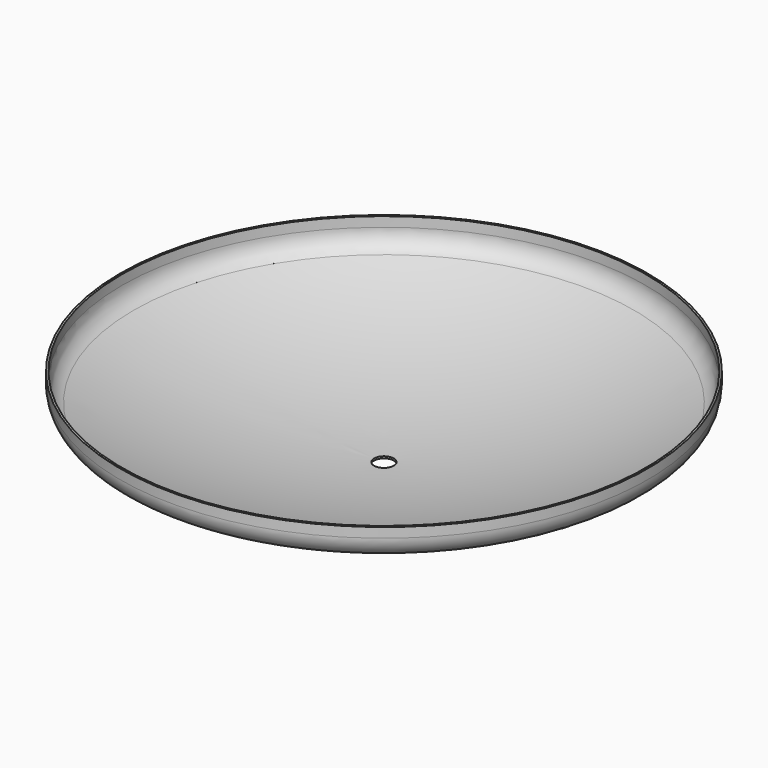
from build123d import *

# Parameters (mm, degrees)
F2_R     = 30.1625
F3_DEPTH = 251.001


with BuildPart() as f1:
    # F0 (on Front) → F1 (revolve)
    with BuildSketch(Plane.XZ):
        with BuildLine():
            Line((-800, -30), (-800, 0))
            Line((-800, 0), (-806, 0))
            Line((-806, 0), (-806, -30))
            ThreePointArc((-806, -30), (-795.245431, -66.110142), (-766.486595, -90.452132))
            ThreePointArc((-766.486595, -90.452132), (-391.560123, -210.432198), (0, -251))
            Line((0, -251), (0, -245))
            ThreePointArc((0, -245), (-390.33006, -204.55964), (-764.078723, -84.956484))
            ThreePointArc((-764.078723, -84.956484), (-790.223119, -62.827402), (-800, -30))
        make_face()
    revolve(axis=Axis((0, 0, -122.5), (0, 0, -1)))

    # F2 (on Top) → F3 (cut, through all)
    with BuildSketch(Plane.XY):
        Circle(F2_R)
    extrude(amount=-F3_DEPTH, mode=Mode.SUBTRACT)


solid = f1.part
